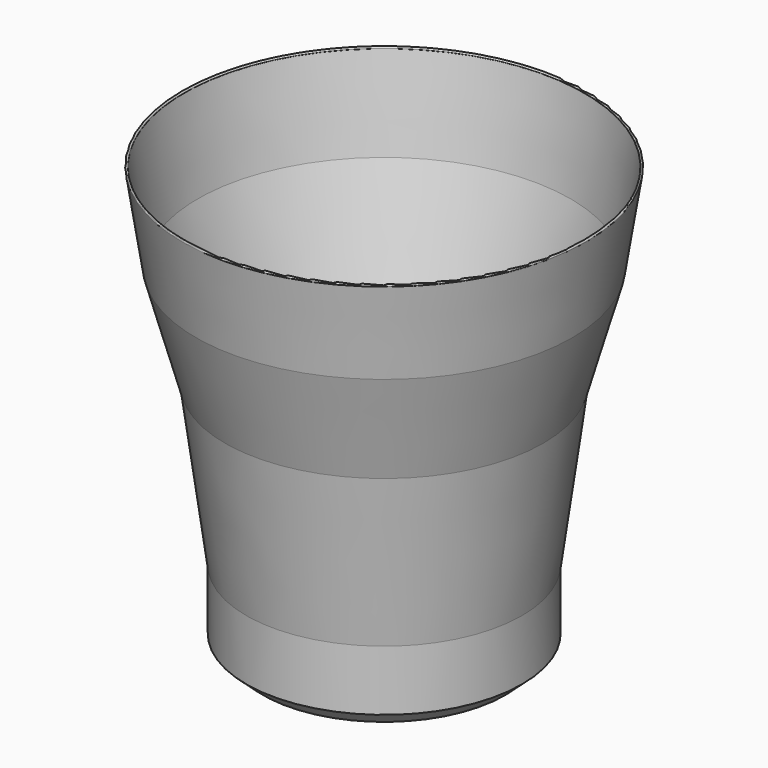
from build123d import *


with BuildPart() as f1:
    # F0 (on Front) → F1 (revolve)
    with BuildSketch(Plane.XZ):
        with BuildLine():
            Line((18.968883, -28.736435), (0, -28.736435))
            Line((0, -28.736435), (0, -29.244435))
            Line((0, -29.244435), (18.773946, -29.244435))
            Line((18.773946, -29.244435), (22.937485, -32.991618))
            Line((22.937485, -32.991618), (33.063513, -32.991618))
            Line((33.063513, -32.991618), (37.540112, -28.962679))
            Line((37.540112, -28.962679), (37.540112, -12.519628))
            Line((37.540112, -12.519628), (43.359688, 30.711497))
            Line((43.359688, 30.711497), (51.269008, 58.602259))
            Line((51.269008, 58.602259), (55.020968, 82.781531))
            ThreePointArc((55.020968, 82.781531), (54.839476, 83.268397), (54.518975, 82.859427))
            Line((54.518975, 82.859427), (50.771788, 58.71091))
            Line((50.771788, 58.71091), (42.861067, 30.815206))
            Line((42.861067, 30.815206), (37.032112, -12.485589))
            Line((37.032112, -12.485589), (37.032112, -28.736435))
            Line((37.032112, -28.736435), (32.868575, -32.483618))
            Line((32.868575, -32.483618), (23.132422, -32.483618))
            Line((23.132422, -32.483618), (18.968883, -28.736435))
        make_face()
    revolve(axis=Axis((0, 0, -28.990435), (0, 0, -1)))


solid = f1.part
